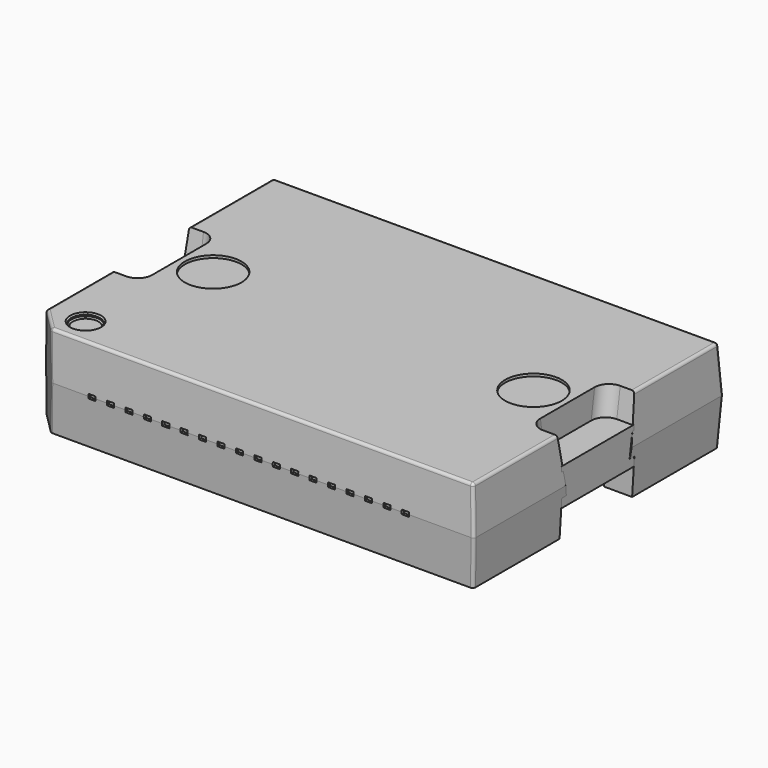
from build123d import *

# Parameters (mm, degrees)
F0_W      = 1.1
F0_H      = 2.8
F1_DEPTH  = 1.625
F3_DEPTH  = 1.29
F5_DEPTH  = 1.1
F7_DEPTH  = 1.1
F8_R      = 1
F9_DEPTH  = 0.09
F10_W     = 0.25
F10_H     = 0.15
F11_DEPTH = 0.1
F12_W     = 0.25
F12_H     = 0.15
F13_DEPTH = 0.1
F14_DEPTH = 15
F16_DEPTH = 25
F18_DEPTH = 0.65
F19_W     = 0.25
F19_H     = 0.15
F24_R     = 0.15
F24_2_R   = 0.15
F25_R     = 0.1
F26_R     = 0.5
F8_R_2    = 0.5
F27_DEPTH = 0.15
F28_SIZE  = 0.05


with BuildPart() as f1:
    # F0 (on Top) → F1 (new body, symmetric)
    with BuildSketch(Plane.XY):
        Polygon((7.95, 5.5), (-7.95, 5.5), (-7.95, 1.6), (-6.85, 1.6), (-6.85, 2.95), (0, 2.95), (6.85, 2.95), (6.85, 1.6), (7.95, 1.6), align=None)
        Polygon((-6.85, -1.6), (-7.95, -1.6), (-7.95, -4.5), (-6.95, -5.5), (7.95, -5.5), (7.95, -1.6), (6.85, -1.6), (6.85, -2.95), (0, -2.95), (-6.85, -2.95), align=None)
        Polygon((-6.85, 1.6), (-7.95, 1.6), (-7.95, 1.4), (-6.85, 1.4), (-6.85, -1.4), (-7.95, -1.4), (-7.95, -1.6), (-6.85, -1.6), (-6.85, -2.95), (0, -2.95), (6.85, -2.95), (6.85, -1.6), (7.95, -1.6), (7.95, -1.4), (6.85, -1.4), (6.85, 1.4), (7.95, 1.4), (7.95, 1.6), (6.85, 1.6), (6.85, 2.95), (0, 2.95), (-6.85, 2.95), align=None)
        with Locations((-7.4, 0)):
            Rectangle(F0_W, F0_H)
        with Locations((7.4, 0)):
            Rectangle(F0_W, F0_H)
    extrude(amount=F1_DEPTH, both=True)

    # F2 (on face) → F3 (cut)
    with BuildSketch(Plane(origin=(0, 0, -1.625), x_dir=(1, 0, 0), z_dir=(0, 0, -1))):
        Polygon((-7.95, -1.6), (-6.8466672674, -1.6), (-6.850767415, -3.15), (6.849232585, -3.15), (6.849232585, -1.6), (7.95, -1.6), (7.95, 1.6), (6.8472828716, 1.6), (6.8472828716, 3.15), (0, 3.15), (-6.8439175375, 3.15), (-6.8439175375, 1.6), (-7.95, 1.6), align=None)
    extrude(amount=-F3_DEPTH, mode=Mode.SUBTRACT)

    # F4 (on face) → F5 (cut)
    with BuildSketch(Plane.YZ.offset(7.95)):
        Polygon((-1.4, -0.335), (0, -0.335), (0, 1.625), (-1.7, 1.625), align=None)
        Polygon((0, 1.625), (0, -0.335), (1.4, -0.335), (1.7, 1.625), align=None)
    extrude(amount=-F5_DEPTH, mode=Mode.SUBTRACT)

    # F6 (on face) → F7 (cut)
    with BuildSketch(Plane(origin=(-7.95, 0, 0), x_dir=(0, -1, 0), z_dir=(-1, 0, 0))):
        Polygon((-1.4, -0.335), (0, -0.335), (1.4, -0.335), (1.7, 1.625), (0, 1.625), (-1.7, 1.625), align=None)
    extrude(amount=-F7_DEPTH, mode=Mode.SUBTRACT)

    # F8 (on face) → F9 (cut)
    with BuildSketch(Plane.XY.offset(1.625)):
        with Locations((-5.65, 0)):
            Circle(F8_R)
        with Locations((5.65, 0)):
            Circle(F8_R)
    extrude(amount=-F9_DEPTH, mode=Mode.SUBTRACT)

    # F10 (on face) → F11 (cut)
    with BuildSketch(Plane.XZ.offset(5.5)):
        with Locations((-4.875, 0)):
            Rectangle(F10_W, F10_H)
        with Locations((-4.225, 0)):
            Rectangle(F10_W, F10_H)
        with Locations((-3.575, 0)):
            Rectangle(F10_W, F10_H)
        with Locations((-2.925, 0)):
            Rectangle(F10_W, F10_H)
        with Locations((-2.275, 0)):
            Rectangle(F10_W, F10_H)
        with Locations((-1.625, 0)):
            Rectangle(F10_W, F10_H)
        with Locations((-0.975, 0)):
            Rectangle(F10_W, F10_H)
        with Locations((-0.325, 0)):
            Rectangle(F10_W, F10_H)
        with Locations((0.325, 0)):
            Rectangle(F10_W, F10_H)
        with Locations((0.975, 0)):
            Rectangle(F10_W, F10_H)
        with Locations((1.625, 0)):
            Rectangle(F10_W, F10_H)
        with Locations((2.275, 0)):
            Rectangle(F10_W, F10_H)
        with Locations((2.925, 0)):
            Rectangle(F10_W, F10_H)
        with Locations((3.575, 0)):
            Rectangle(F10_W, F10_H)
        with Locations((4.225, 0)):
            Rectangle(F10_W, F10_H)
        with Locations((4.875, 0)):
            Rectangle(F10_W, F10_H)
        with Locations((-5.525, 0)):
            Rectangle(F10_W, F10_H)
        with Locations((5.525, 0)):
            Rectangle(F10_W, F10_H)
    extrude(amount=-F11_DEPTH, mode=Mode.SUBTRACT)

    # F12 (on face) → F13 (cut)
    with BuildSketch(Plane(origin=(0, 5.5, 0), x_dir=(-1, 0, 0), z_dir=(0, 1, 0))):
        with Locations((-4.875, 0)):
            Rectangle(F12_W, F12_H)
        with Locations((-4.225, 0)):
            Rectangle(F12_W, F12_H)
        with Locations((-3.575, 0)):
            Rectangle(F12_W, F12_H)
        with Locations((-2.925, 0)):
            Rectangle(F12_W, F12_H)
        with Locations((-2.275, 0)):
            Rectangle(F12_W, F12_H)
        with Locations((-1.625, 0)):
            Rectangle(F12_W, F12_H)
        with Locations((-0.975, 0)):
            Rectangle(F12_W, F12_H)
        with Locations((-0.325, 0)):
            Rectangle(F12_W, F12_H)
        with Locations((0.325, 0)):
            Rectangle(F12_W, F12_H)
        with Locations((0.975, 0)):
            Rectangle(F12_W, F12_H)
        with Locations((1.625, 0)):
            Rectangle(F12_W, F12_H)
        with Locations((2.925, 0)):
            Rectangle(F12_W, F12_H)
        with Locations((3.575, 0)):
            Rectangle(F12_W, F12_H)
        with Locations((4.225, 0)):
            Rectangle(F12_W, F12_H)
        with Locations((4.875, 0)):
            Rectangle(F12_W, F12_H)
        with Locations((2.275, 0)):
            Rectangle(F12_W, F12_H)
        with Locations((-5.525, 0)):
            Rectangle(F12_W, F12_H)
        with Locations((5.525, 0)):
            Rectangle(F12_W, F12_H)
    extrude(amount=-F13_DEPTH, mode=Mode.SUBTRACT)

    # F12 (on face) → F14 (cut)
    with BuildSketch(Plane(origin=(0, 5.5, 0), x_dir=(-1, 0, 0), z_dir=(0, 1, 0))):
        Polygon((-7.95, 1.625), (-7.95, 0), (-7.85, 1.625), align=None)
        Polygon((-7.85, -1.625), (-7.95, 0), (-7.95, -1.625), align=None)
        Polygon((7.95, 1.625), (7.85, 1.625), (7.95, 0), align=None)
        Polygon((7.95, 0), (7.85, -1.625), (7.95, -1.625), align=None)
    extrude(amount=-F14_DEPTH, mode=Mode.SUBTRACT)

    # F15 (on face) → F16 (cut)
    with BuildSketch(Plane.YZ.offset(7.95)):
        Polygon((-5.5, 1.625), (-5.5, 0), (-5.405495553, 1.625), align=None)
        Polygon((-5.405495553, -1.625), (-5.5, 0), (-5.5, -1.625), align=None)
        Polygon((5.5, 1.625), (5.405495553, 1.625), (5.5, 0), align=None)
        Polygon((5.5, -1.625), (5.5, 0), (5.405495553, -1.625), align=None)
    extrude(amount=-F16_DEPTH, mode=Mode.SUBTRACT)

    # F25
    f25_edges = [f1.edges().sort_by_distance(p)[0] for p in [
        (7.85, -3.552748, 1.625),
        (7.85, 3.552748, 1.625),
        (0, 5.405496, 1.625),
        (7.9, 5.452748, 0.8125),
        (7.9, 5.452748, -0.8125),
        (-7.85, 3.552748, 1.625),
        (-7.85, -3.15, 1.625),
        (-7.447252, -5.002748, 1.625),
        (-7.9, -4.55, 0.8125),
        (-7.9, -4.55, -0.8125),
        (-7.9, 5.452748, 0.8125),
        (-7.9, 5.452748, -0.8125),
        (-6.997252, -5.452748, 0.8125),
        (-6.997252, -5.452748, -0.8125),
        (0.402748, -5.405496, 1.625),
        (7.9, -5.452748, 0.8125),
        (7.9, -5.452748, -0.8125),
    ]]
    fillet(f25_edges, radius=F25_R)

    # F26
    f26_edges = [f1.edges().sort_by_distance(p)[0] for p in [
        (-6.85, 1.55, 0.645),
        (-6.85, -1.55, 0.645),
        (6.85, 1.55, 0.645),
        (6.85, -1.55, 0.645),
    ]]
    fillet(f26_edges, radius=F26_R)

    # F8 (on face) → F27 (cut)
    with BuildSketch(Plane.XY.offset(1.625)):
        with Locations((-6.55, -4.5)):
            Circle(F8_R_2)
    extrude(amount=-F27_DEPTH, mode=Mode.SUBTRACT)

    # F28
    f28_edges = [f1.edges().sort_by_distance(p)[0] for p in [
        (-7.05, -4.5, 1.625),
        (-7.05, -4.5, 1.475),
    ]]
    chamfer(f28_edges, length=F28_SIZE)


with BuildPart() as f18:
    # F17 (on Top) → F18 (new body, symmetric)
    with BuildSketch(Plane.XY):
        Polygon((-6.8787754588, 1.6), (-7.9787754588, 1.6), (-7.9787754588, -1.6), (-6.8787754588, -1.6), (-6.8787754588, -3.15), (6.8212245412, -3.15), (6.8212245412, -1.6), (7.9212245412, -1.6), (7.9212245412, 1.6), (6.8212245412, 1.6), (6.8212245412, 3.15), (-6.8787754588, 3.15), align=None)
    extrude(amount=F18_DEPTH, both=True)


with BuildPart() as f22:
    # F22: sweep along a path in F20
    with BuildLine(Plane.YZ) as f22_path:
        Line((0, 0), (0.55, 0))
        Line((0.55, 0), (0.75, -1.4668857697))
        Line((0.75, -1.4668857697), (1.7, -1.55))
    # F19 (on Front) → F22 (sweep)
    with BuildSketch(Plane.XZ):
        Rectangle(F19_W, F19_H)
    sweep(path=f22_path.line, transition=Transition.RIGHT)

    # F24#2
    f24_2_edges = [f22.edges().sort_by_distance(p)[0] for p in [
        (0, 0.816219, -1.397393),
        (0, 0.615468, 0.075),
        (0, 0.683781, -1.536379),
        (0, 0.484532, -0.075),
    ]]
    fillet(f24_2_edges, radius=F24_2_R)


with BuildPart() as f23:
    # F23: sweep along a path in F21
    with BuildLine(Plane.YZ) as f23_path:
        Line((0, 0), (-0.55, 0))
        Line((-0.55, 0), (-0.75, -1.4668857697))
        Line((-0.75, -1.4668857697), (-1.7, -1.55))
    # F19 (on Front) → F23 (sweep)
    with BuildSketch(Plane.XZ):
        Rectangle(F19_W, F19_H)
    sweep(path=f23_path.line, transition=Transition.RIGHT)

    # F24
    f24_edges = [f23.edges().sort_by_distance(p)[0] for p in [
        (0, -0.816219, -1.397393),
        (0, -0.615468, 0.075),
        (0, -0.484532, -0.075),
        (0, -0.683781, -1.536379),
    ]]
    fillet(f24_edges, radius=F24_R)


solid = Compound([f1.part, f18.part, f22.part, f23.part])
